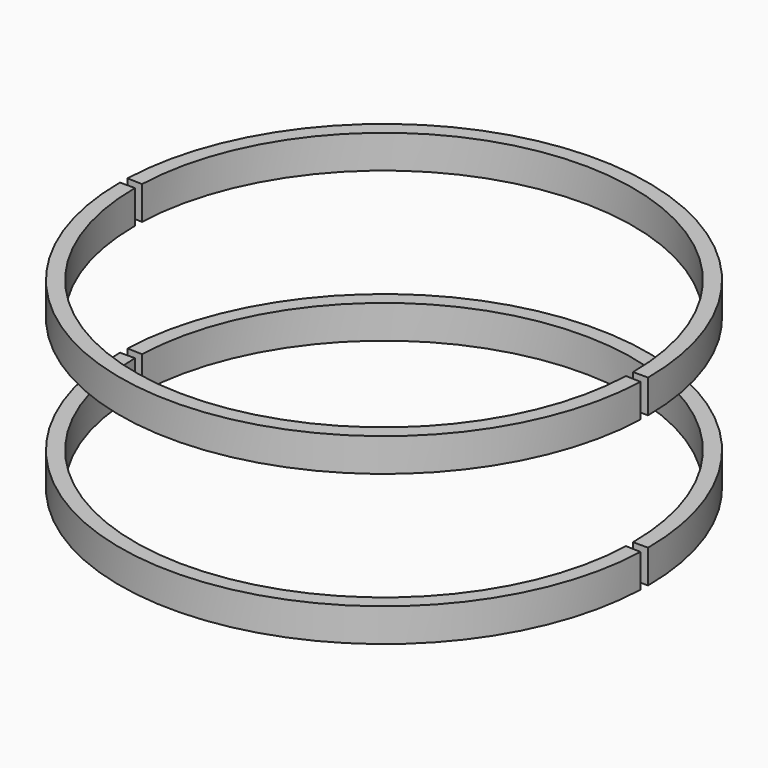
from build123d import *

# Parameters (mm, degrees)
CYLINDER087_R          = 22.45
CYLINDER087_DEPTH      = 17
CYLINDER086_W          = 23.8
CYLINDER086_H          = 3
CYLINDER086_ANGLE      = 178
CUT028_PLACEMENT_ANGLE = 180
CYLINDER085_R          = 22.45
CYLINDER085_DEPTH      = 17
CYLINDER084_W          = 23.8
CYLINDER084_H          = 3
CYLINDER084_ANGLE      = 178
CUT027_PLACEMENT_ANGLE = 180


with BuildPart() as cylinder087:
    # Cylinder087 → Cylinder087 (new body)
    with BuildSketch(Plane.XY):
        Circle(CYLINDER087_R)
    extrude(amount=CYLINDER087_DEPTH)


with BuildPart() as cylinder086:
    # Cylinder086 → Cylinder086 (revolve)
    with BuildSketch(Plane(origin=(0, 0, 1.8), x_dir=(1, 0, 0), z_dir=(0, -1, 0))):
        with Locations((11.9, 1.5)):
            Rectangle(CYLINDER086_W, CYLINDER086_H)
    revolve(axis=Axis((0, 0, 1.8), (0, 0, 1)), revolution_arc=CYLINDER086_ANGLE)


with BuildPart() as cut028:
    # Cut028 base: copy of Cylinder086
    add(cylinder086.part)

    # Cut028: cut Cylinder087
    add(cylinder087.part, mode=Mode.SUBTRACT)


with BuildPart() as cut028_1:
    # Cut028 placement: moved
    add(cut028.part.rotate(Axis((0, 0, 0), (0, 0, 1)), CUT028_PLACEMENT_ANGLE))


with BuildPart() as cylinder085:
    # Cylinder085 → Cylinder085 (new body)
    with BuildSketch(Plane.XY):
        Circle(CYLINDER085_R)
    extrude(amount=CYLINDER085_DEPTH)


with BuildPart() as cylinder084:
    # Cylinder084 → Cylinder084 (revolve)
    with BuildSketch(Plane(origin=(0, 0, 1.8), x_dir=(1, 0, 0), z_dir=(0, -1, 0))):
        with Locations((11.9, 1.5)):
            Rectangle(CYLINDER084_W, CYLINDER084_H)
    revolve(axis=Axis((0, 0, 1.8), (0, 0, 1)), revolution_arc=CYLINDER084_ANGLE)


with BuildPart() as fusion046:
    # Cut029 base: copy of Cylinder084
    add(cylinder084.part)

    # Cut029: cut Cylinder085
    add(cylinder085.part, mode=Mode.SUBTRACT)

    # Fusion046: union Cut028
    add(cut028_1.part)


with BuildPart() as cut027:
    # Cut027 base: copy of Cylinder086
    add(cylinder086.part)

    # Cut027: cut Cylinder087
    add(cylinder087.part, mode=Mode.SUBTRACT)


with BuildPart() as cut027_1:
    # Cut027 placement: moved
    add(cut027.part.rotate(Axis((0, 0, 0), (0, 0, 1)), CUT027_PLACEMENT_ANGLE))


with BuildPart() as rim_support_all:
    # Cut026 base: copy of Cylinder084
    add(cylinder084.part)

    # Cut026: cut Cylinder085
    add(cylinder085.part, mode=Mode.SUBTRACT)

    # Fusion045: union Cut027
    add(cut027_1.part)


with BuildPart() as rim_support_all_1:
    # Fusion045 placement: moved
    add(rim_support_all.part.moved(Location((0, 0, 13.5))))

    # Fusion044: union Fusion046
    add(fusion046.part)


solid = rim_support_all_1.part
